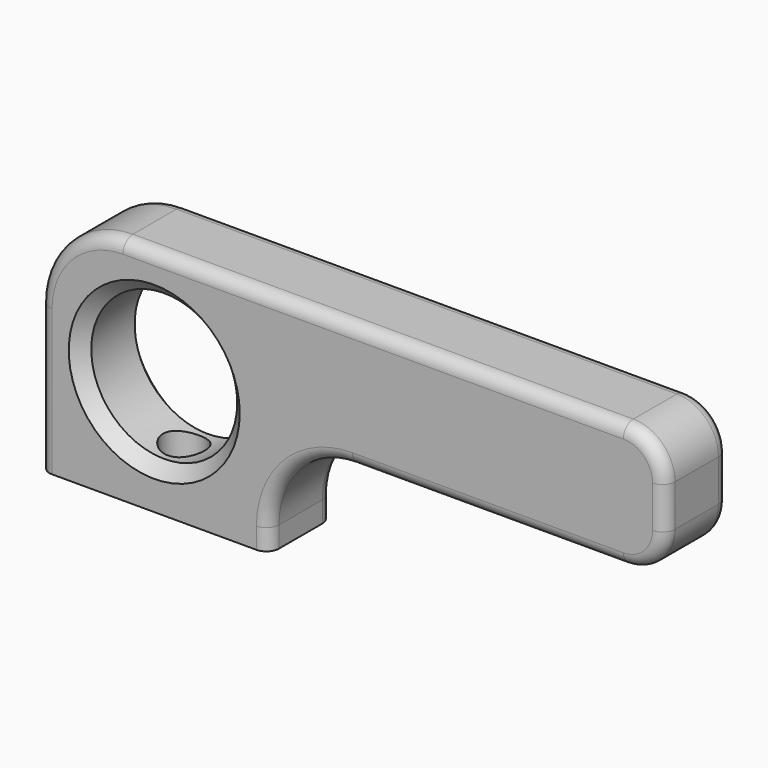
from build123d import *

# Parameters (mm, degrees)
F0_W      = 150
F0_H      = 55
F1_DEPTH  = 19
F2_R      = 17.5
F3_DEPTH  = 19.001
F4_W      = 95
F4_H      = 25
F5_DEPTH  = 19.001
F6_R      = 20
F7_R      = 10
F8_R      = 3
F9_R      = 5
F10_DEPTH = 48
F11_SIZE  = 3
F12_SIZE  = 2


with BuildPart() as f1:
    # F0 (on Front) → F1 (new body)
    with BuildSketch(Plane.XZ):
        with Locations((75, 27.5)):
            Rectangle(F0_W, F0_H)
    extrude(amount=F1_DEPTH)

    # F2 (on face) → F3 (cut, through all)
    with BuildSketch(Plane.XZ.offset(19)):
        with Locations((27.5, 27.5)):
            Circle(F2_R)
    extrude(amount=-F3_DEPTH, mode=Mode.SUBTRACT)

    # F4 (on face) → F5 (cut, through all)
    with BuildSketch(Plane.XZ.offset(19)):
        with Locations((102.5, 12.5)):
            Rectangle(F4_W, F4_H)
    extrude(amount=-F5_DEPTH, mode=Mode.SUBTRACT)

    # F6
    f6_edges = [f1.edges().sort_by_distance(p)[0] for p in [
        (55, -9.5, 25),
        (0, -9.5, 55),
    ]]
    fillet(f6_edges, radius=F6_R)

    # F7
    f7_edges = [f1.edges().sort_by_distance(p)[0] for p in [
        (150, -9.5, 25),
        (150, -9.5, 55),
    ]]
    fillet(f7_edges, radius=F7_R)

    # F8
    f8_edges = [f1.edges().sort_by_distance(p)[0] for p in [
        (107.5, -19, 25),
        (80, 0, 55),
    ]]
    fillet(f8_edges, radius=F8_R)

    # F9 (on face) → F10 (cut)
    with BuildSketch(Plane(origin=(0, 0, 0), x_dir=(1, 0, 0), z_dir=(0, 0, -1))):
        with Locations((26.9999956992, 9.4847604468)):
            Circle(F9_R)
    extrude(amount=-F10_DEPTH, mode=Mode.SUBTRACT)

    # F11
    f11_edges = [f1.edges().sort_by_distance(p)[0] for p in [
        (10, -19, 27.5),
        (10, 0, 27.5),
    ]]
    chamfer(f11_edges, length=F11_SIZE)

    # F12
    f12_edges = [f1.edges().sort_by_distance(p)[0] for p in [
        (21.999996, -9.48476, 48),
    ]]
    chamfer(f12_edges, length=F12_SIZE)


solid = f1.part
